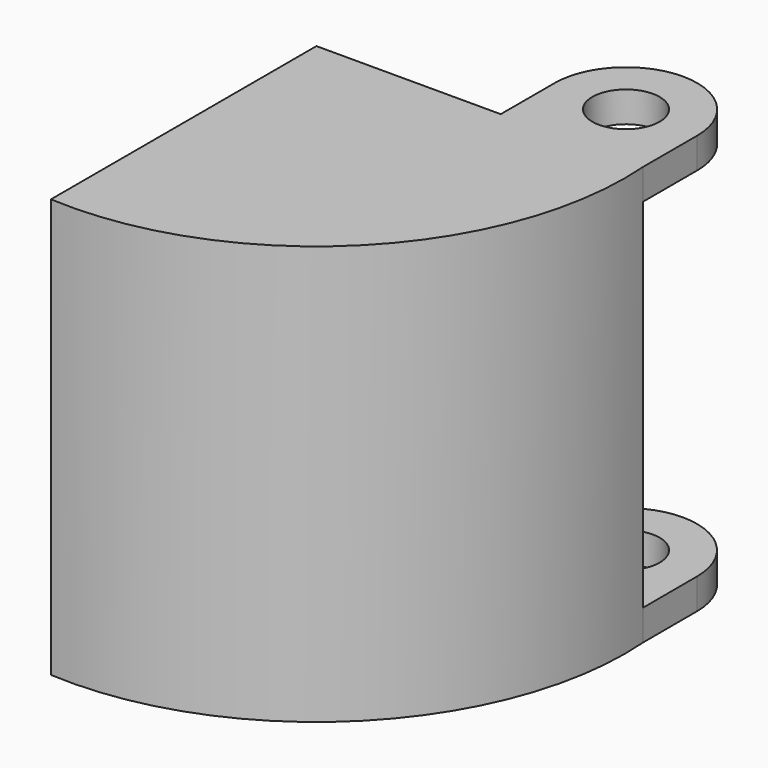
from build123d import *

# Parameters (mm, degrees)
F1_DEPTH = 44.45
F2_T     = -2.54
F4_DEPTH = 3.81
F5_R     = 4.205558
F6_DEPTH = 3.81


with BuildPart() as f1:
    # F0 (on Top) → F1 (new body)
    with BuildSketch(Plane.XY):
        with BuildLine():
            Line((40.64, 0), (0, 0))
            Line((0, 0), (0, -41.275))
            ThreePointArc((0, -41.275), (29.688681, -29.862048), (40.64, 0))
        make_face()
    extrude(amount=F1_DEPTH)

    # F2
    f2_openings = [f1.faces().sort_by_distance(p)[0] for p in [
        (0, -20.6375, 22.225),
        (20.32, 0, 22.225),
    ]]
    offset(amount=F2_T, openings=f2_openings)

    # F3 (on face) → F4 (join)
    with BuildSketch(Plane.XY.offset(44.45)):
        with BuildLine():
            ThreePointArc((0, -41.275), (29.688681, -29.862048), (40.64, 0))
            Line((40.64, 0), (31.781275, 0))
            Line((31.781275, 0), (22.916552, 0))
            Line((22.916552, 0), (0, 0))
            Line((0, 0), (0, -41.275))
        make_face()
        with BuildLine():
            Line((31.781275, 0), (40.64, 0))
            Line((40.64, 0), (40.64, 8.392821))
            ThreePointArc((40.64, 8.392821), (31.784439, 17.251546), (22.922552, 8.39915))
            Line((22.922552, 8.39915), (22.916552, 0))
            Line((22.916552, 0), (31.781275, 0))
        make_face()
        with BuildLine():
            ThreePointArc((35.966783, 8.392821), (34.740876, 5.43322), (31.781275, 4.207313))
            ThreePointArc((31.781275, 4.207313), (28.821674, 11.352422), (35.966783, 8.392821))
        make_face(mode=Mode.SUBTRACT)
    extrude(amount=F4_DEPTH)

    # F5 (on face) → F6 (join)
    with BuildSketch(Plane(origin=(0, 0, 0), x_dir=(1, 0, 0), z_dir=(0, 0, -1))):
        with BuildLine():
            Line((40.626373, -8.396372), (40.64, 0))
            Line((40.64, 0), (31.771399, 0))
            Line((31.771399, 0), (22.916414, 0))
            Line((22.916414, 0), (22.916414, -8.382))
            ThreePointArc((22.916414, -8.382), (31.764213, -17.236982), (40.626373, -8.396372))
        make_face()
        with Locations((31.771399, -8.382)):
            Circle(F5_R, mode=Mode.SUBTRACT)
        with BuildLine():
            Line((31.771399, 0), (40.64, 0))
            ThreePointArc((40.64, 0), (29.688681, 29.862048), (0, 41.275))
            Line((0, 41.275), (0, 0))
            Line((0, 0), (22.916414, 0))
            Line((22.916414, 0), (31.771399, 0))
        make_face()
    extrude(amount=F6_DEPTH)


solid = f1.part
